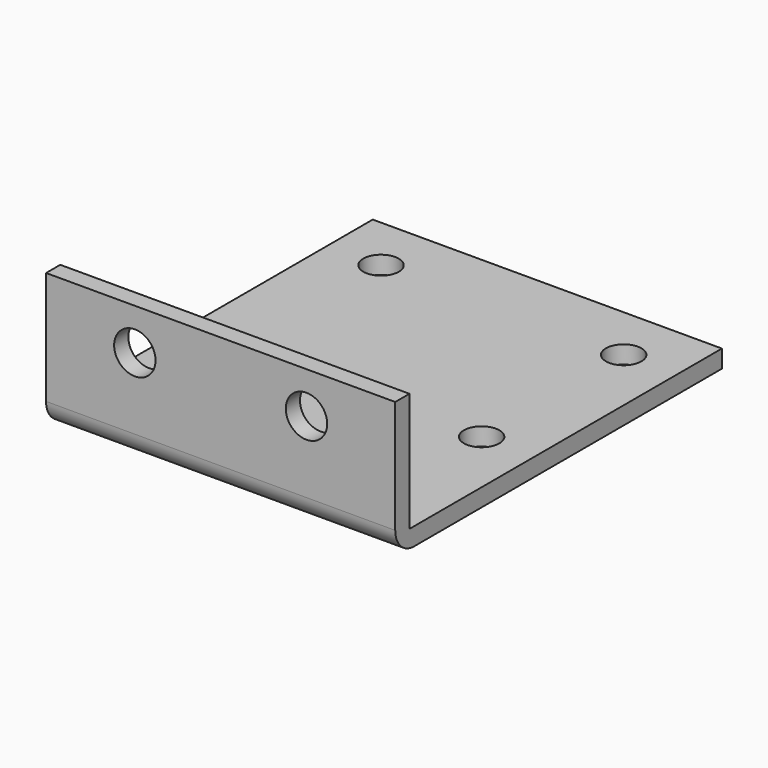
from build123d import *

# Parameters (mm, degrees)
F0_W     = 59
F0_H     = 23.1
F0_R     = 3.5
F1_DEPTH = 1.5
F3_W     = 59
F3_H     = 66
F3_R     = 3
F4_DEPTH = 3
F5_R     = 4


with BuildPart() as f1:
    # F0 (on Front) → F1 (new body, symmetric)
    with BuildSketch(Plane.XZ):
        Rectangle(F0_W, F0_H)
        with Locations((-14.5, 4.55)):
            Circle(F0_R, mode=Mode.SUBTRACT)
        with Locations((14.5, 4.55)):
            Circle(F0_R, mode=Mode.SUBTRACT)
    extrude(amount=F1_DEPTH, both=True)

    # F3 (on offset) → F4 (join)
    with BuildSketch(Plane(origin=(0, 0, -11.55), x_dir=(1, 0, 0), z_dir=(0, 0, -1))):
        with Locations((0, -34.5)):
            Rectangle(F3_W, F3_H)
        with Locations((-20.5, -58)):
            Circle(F3_R, mode=Mode.SUBTRACT)
        with Locations((20.5, -58)):
            Circle(F3_R, mode=Mode.SUBTRACT)
        with Locations((-20.5, -28)):
            Circle(F3_R, mode=Mode.SUBTRACT)
        with Locations((20.5, -28)):
            Circle(F3_R, mode=Mode.SUBTRACT)
    extrude(amount=-F4_DEPTH)

    # F5
    f5_edges = [f1.edges().sort_by_distance(p)[0] for p in [
        (0, -1.5, -11.55),
    ]]
    fillet(f5_edges, radius=F5_R)


solid = f1.part
